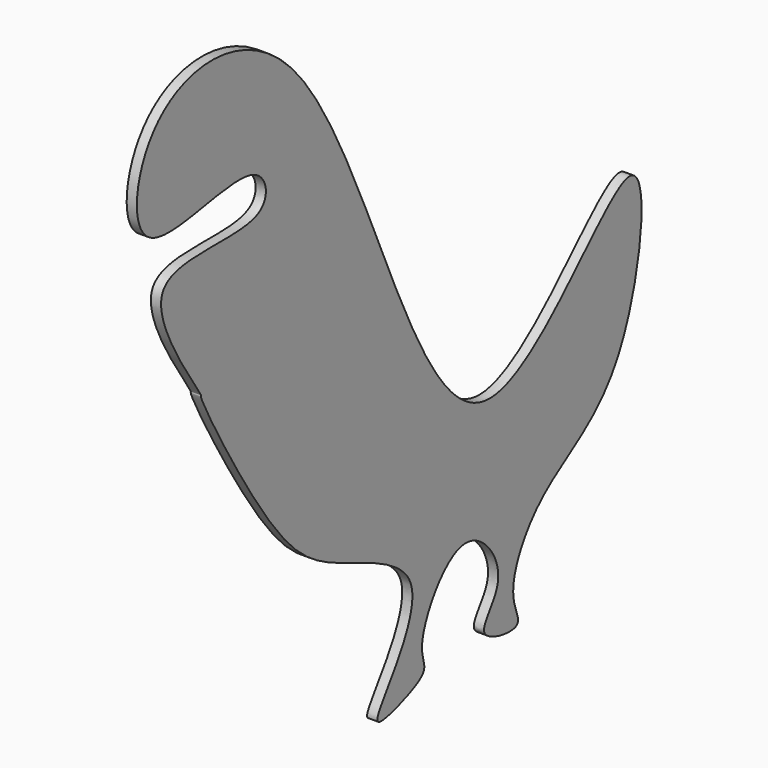
from build123d import *

# Parameters (mm, degrees)
F3_DEPTH = 3.175


with BuildPart() as f3:
    # F1 (on face) → F3 (new body)
    with BuildSketch(Plane.YZ):
        with BuildLine():
            add(Edge.make_bspline(
                [(122.5389167666, 3.2449290156), (113.1843398375, 4.2573015774), (49.6337837491, -95.0434537462), (10.9168650359, 107.7408642722), (-68.1509406241, 103.3341938995), (-74.0621485623, 48.3812175796), (-21.1047020942, 72.2884221006), (-15.2877666295, 43.5213815843), (-81.3638968451, 60.28852747), (-43.3996448734, 10.7634627219), (-45.5730230795, 10.9692018968), (-15.0242421527, -44.448528145), (7.0575185098, -56.8015604037), (45.9935047056, -69.7658233746), (30.4333737034, -96.031527008), (20.3187585289, -108.9516795551), (35.7222892234, -104.3122950615), (44.4913214361, -99.6594756487), (38.1533636088, -91.726044152), (56.8636315154, -60.4539069325), (77.7045259597, -87.2190224457), (58.4639939153, -99.9558014748), (82.9343751064, -104.6647085455), (73.3355041025, -92.1632776046), (87.2845337032, -65.7148451163), (123.1437308222, -55.2249117629), (130.4000936179, 2.3941754426), (122.5389167666, 3.2449290156)],
                knots=[0, 0, 0, 0, 0.0634276485, 0.1559156003, 0.2123202225, 0.2543117257, 0.3035885818, 0.3291893222, 0.3770222093, 0.4240887742, 0.4288068883, 0.486511429, 0.5311111299, 0.5739112934, 0.6123448267, 0.6373773746, 0.6630534664, 0.6856815801, 0.7068371527, 0.746411979, 0.7810814262, 0.8093170599, 0.8368271456, 0.8590634723, 0.8979446645, 0.9466981814, 1, 1, 1, 1], degree=3))
        make_face()
    extrude(amount=F3_DEPTH)


solid = f3.part
